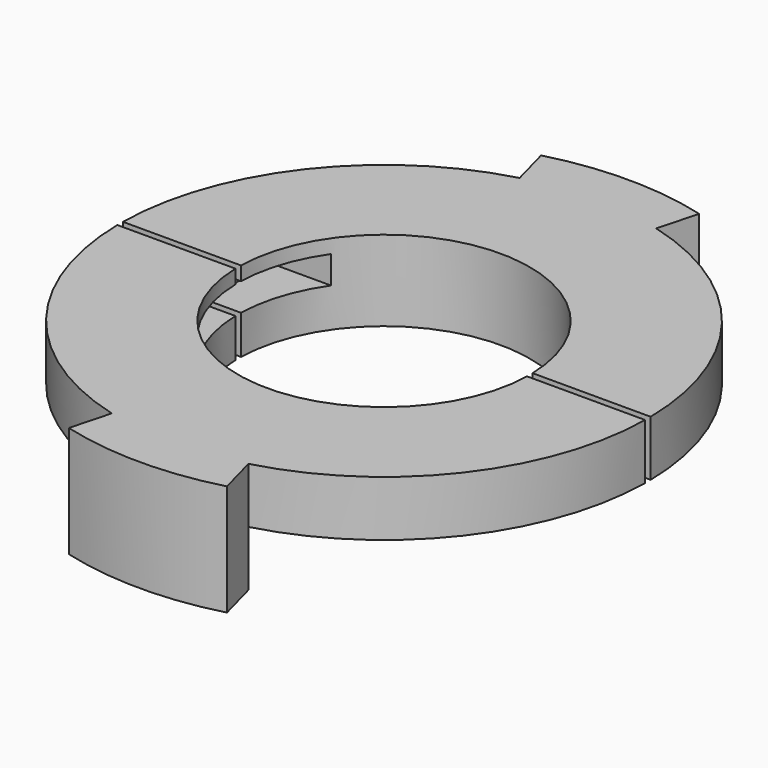
from build123d import *

# Parameters (mm, degrees)
F0_R     = 19
F0_R_2   = 13.4
F0_R_3   = 10.5
F1_DEPTH = 4
F2_DEPTH = 1.8
F3_W     = 6
F3_H     = 2
F4_DEPTH = 13
F5_W     = 40
F5_H     = 0.5
F6_DEPTH = 25
F8_DEPTH = 4


with BuildPart() as f1:
    # F0 (on Top) → F1 (new body)
    with BuildSketch(Plane.XY):
        Circle(F0_R)
        Circle(F0_R_2, mode=Mode.SUBTRACT)
        Circle(F0_R_2)
        Circle(F0_R_3, mode=Mode.SUBTRACT)
    extrude(amount=F1_DEPTH)

    # F0 (on Top) → F2 (join)
    with BuildSketch(Plane.XY):
        Circle(F0_R_2)
        Circle(F0_R_3, mode=Mode.SUBTRACT)
    extrude(amount=-F2_DEPTH)

    # F3 (on Right) → F4 (cut, symmetric)
    with BuildSketch(Plane.YZ):
        with Locations((-3, 2)):
            Rectangle(F3_W, F3_H)
        with Locations((3, 2)):
            Rectangle(F3_W, F3_H)
    extrude(amount=F4_DEPTH, both=True, mode=Mode.SUBTRACT)

    # F5 (on face) → F6 (cut)
    with BuildSketch(Plane.XY.offset(4)):
        with BuildLine():
            Line((-10.4970233876, 0.25), (-18.998355192, 0.25))
            ThreePointArc((-18.998355192, 0.25), (-19, 0), (-18.998355192, -0.25))
            Line((-18.998355192, -0.25), (-10.4970233876, -0.25))
            ThreePointArc((-10.4970233876, -0.25), (-10.5, 0), (-10.4970233876, 0.25))
        make_face()
        Rectangle(F5_W, F5_H)
    extrude(amount=-F6_DEPTH, mode=Mode.SUBTRACT)

    # F7 (on Top) → F8 (join, symmetric)
    with BuildSketch(Plane.XY):
        with BuildLine():
            ThreePointArc((-5.6940189923, -21.2503681784), (0, -22), (5.6940189923, -21.2503681784))
            Line((5.6940189923, -21.2503681784), (4.9175618569, -18.3525906995))
            ThreePointArc((4.9175618569, -18.3525906995), (0, -19), (-4.9175618569, -18.3525906995))
            Line((-4.9175618569, -18.3525906995), (-5.6940189923, -21.2503681784))
        make_face()
        with BuildLine():
            Line((4.9175618569, 18.3525906995), (5.6940189923, 21.2503681784))
            ThreePointArc((5.6940189923, 21.2503681784), (0, 22), (-5.6940189923, 21.2503681784))
            Line((-5.6940189923, 21.2503681784), (-4.9175618569, 18.3525906995))
            ThreePointArc((-4.9175618569, 18.3525906995), (0, 19), (4.9175618569, 18.3525906995))
        make_face()
    extrude(amount=F8_DEPTH, both=True)


solid = f1.part
